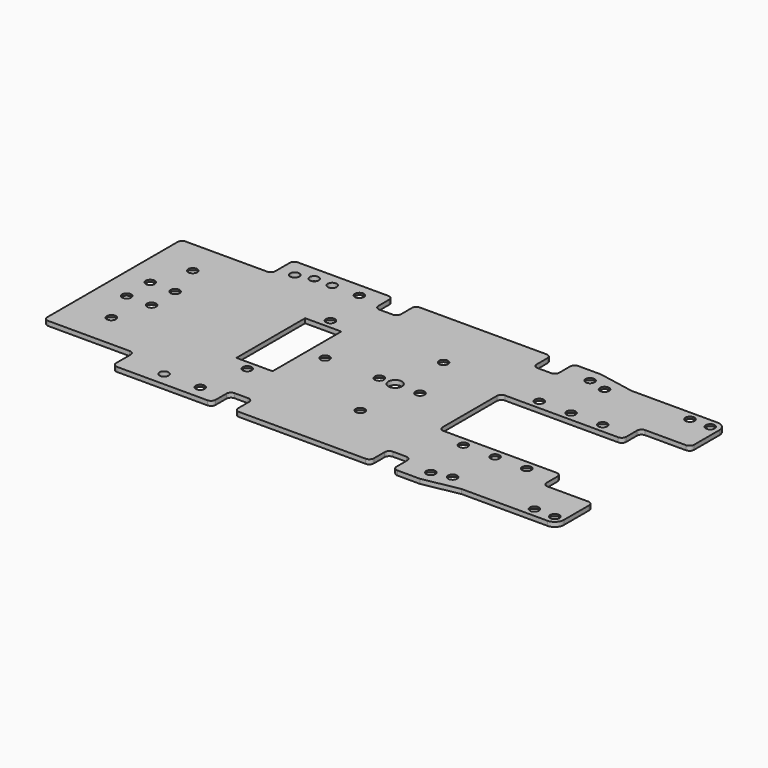
from build123d import *

# Parameters (mm, degrees)
SKETCH239_R      = 1.5
EXTRUDE041_DEPTH = 1
SKETCH243_R      = 1
EXTRUDE045_DEPTH = 1
SKETCH242_R      = 1
EXTRUDE044_DEPTH = 1
SKETCH241_R      = 1
EXTRUDE043_DEPTH = 1
SKETCH240_R      = 1
EXTRUDE042_DEPTH = 1
SKETCH224_W      = 8
SKETCH224_H      = 19
EXTRUDE040_DEPTH = 1
SKETCH183_R      = 2
SKETCH182_R      = 1
SKETCH187_R      = 2
SKETCH185_R      = 1
SKETCH184_R      = 2
SKETCH186_R      = 1
SKETCH189_R      = 2
SKETCH188_R      = 1
SKETCH191_R      = 2
SKETCH190_R      = 1
SKETCH181_R      = 2
SKETCH180_R      = 1
SKETCH193_R      = 2
SKETCH192_R      = 1
SKETCH197_R      = 2
SKETCH196_R      = 1
SKETCH199_R      = 2
SKETCH198_R      = 1
SKETCH201_R      = 2
SKETCH200_R      = 1
SKETCH203_R      = 2
SKETCH202_R      = 1
SKETCH207_R      = 2
SKETCH206_R      = 1
SKETCH205_R      = 2
SKETCH204_R      = 1
SKETCH209_R      = 2
SKETCH208_R      = 1
SKETCH211_R      = 2
SKETCH210_R      = 1
SKETCH213_R      = 2
SKETCH212_R      = 1
SKETCH215_R      = 2
SKETCH214_R      = 1
SKETCH217_R      = 2
SKETCH216_R      = 1
SKETCH219_R      = 2
SKETCH218_R      = 1
SKETCH221_R      = 2
SKETCH220_R      = 1
SKETCH223_R      = 2
SKETCH222_R      = 1
SKETCH226_R      = 2
SKETCH225_R      = 1
SKETCH228_R      = 2
SKETCH227_R      = 1
SKETCH230_R      = 2
SKETCH229_R      = 1
SKETCH232_R      = 2
SKETCH231_R      = 1
SKETCH234_R      = 2
SKETCH233_R      = 1
SKETCH236_R      = 2
SKETCH235_R      = 1
SKETCH238_R      = 2
SKETCH237_R      = 1
SKETCH195_R      = 2
SKETCH194_R      = 1
EXTRUDE039_DEPTH = 1


with BuildPart() as extrude041:
    # Sketch239 → Extrude041 (new body)
    with BuildSketch(Plane.XY):
        with Locations((10.5, 0)):
            Circle(SKETCH239_R)
    extrude(amount=EXTRUDE041_DEPTH)


with BuildPart() as extrude045:
    # Sketch243 → Extrude045 (new body)
    with BuildSketch(Plane(origin=(0.5, 1.5, 0), x_dir=(1, 0, 0), z_dir=(0, 0, 1))):
        with Locations((-23.5, 20.5)):
            Circle(SKETCH243_R)
    extrude(amount=EXTRUDE045_DEPTH)


with BuildPart() as extrude045_1:
    # Extrude045 placement: moved
    add(extrude045.part.moved(Location((-5.5, -43, 0))))


with BuildPart() as extrude044:
    # Sketch242 → Extrude044 (new body)
    with BuildSketch(Plane(origin=(0.5, 1.5, 0), x_dir=(1, 0, 0), z_dir=(0, 0, 1))):
        with Locations((-23.5, 20.5)):
            Circle(SKETCH242_R)
    extrude(amount=EXTRUDE044_DEPTH)


with BuildPart() as extrude044_1:
    # Extrude044 placement: moved
    add(extrude044.part.moved(Location((-2, -44, 0))))


with BuildPart() as extrude043:
    # Sketch241 → Extrude043 (new body)
    with BuildSketch(Plane(origin=(0.5, 1.5, 0), x_dir=(1, 0, 0), z_dir=(0, 0, 1))):
        with Locations((-23.5, 20.5)):
            Circle(SKETCH241_R)
    extrude(amount=EXTRUDE043_DEPTH)


with BuildPart() as extrude043_1:
    # Extrude043 placement: moved
    add(extrude043.part.moved(Location((2, -44, 0))))


with BuildPart() as extrude042:
    # Sketch240 → Extrude042 (new body)
    with BuildSketch(Plane(origin=(0.5, 1.5, 0), x_dir=(1, 0, 0), z_dir=(0, 0, 1))):
        with Locations((-23.5, 20.5)):
            Circle(SKETCH240_R)
    extrude(amount=EXTRUDE042_DEPTH)


with BuildPart() as fusion016:
    # Sketch224 → Extrude040 (new body)
    with BuildSketch(Plane(origin=(-17, -9.5, 0), x_dir=(1, 0, 0), z_dir=(0, 0, 1))):
        with Locations((4, 9.5)):
            Rectangle(SKETCH224_W, SKETCH224_H)
    extrude(amount=EXTRUDE040_DEPTH)

    # Fusion016: union Extrude041, Extrude045, Extrude044, Extrude043, Extrude042
    add(extrude041.part)
    add(extrude045_1.part)
    add(extrude044_1.part)
    add(extrude043_1.part)
    add(extrude042.part)


with BuildPart() as loft042:
    # Sketch183 → Loft042 section 0
    with BuildSketch(Plane.XY):
        with Locations((-43.5, 11)):
            Circle(SKETCH183_R)
    # Sketch182 → Loft042 section 1
    with BuildSketch(Plane.XY.offset(1)):
        with Locations((-43.5, 11)):
            Circle(SKETCH182_R)
    loft()


with BuildPart() as loft042_1:
    # Loft042 placement: moved
    add(loft042.part.moved(Location((2.75, -7.75, 0))))


with BuildPart() as loft044:
    # Sketch187 → Loft044 section 0
    with BuildSketch(Plane.XY):
        with Locations((-43.5, 11)):
            Circle(SKETCH187_R)
    # Sketch185 → Loft044 section 1
    with BuildSketch(Plane.XY.offset(1)):
        with Locations((-43.5, 11)):
            Circle(SKETCH185_R)
    loft()


with BuildPart() as loft044_1:
    # Loft044 placement: moved
    add(loft044.part.moved(Location((2.75, -14.25, 0))))


with BuildPart() as loft043:
    # Sketch184 → Loft043 section 0
    with BuildSketch(Plane.XY):
        with Locations((-43.5, 11)):
            Circle(SKETCH184_R)
    # Sketch186 → Loft043 section 1
    with BuildSketch(Plane.XY.offset(1)):
        with Locations((-43.5, 11)):
            Circle(SKETCH186_R)
    loft()


with BuildPart() as loft043_1:
    # Loft043 placement: moved
    add(loft043.part.moved(Location((-2.75, -14.25, 0))))


with BuildPart() as loft045:
    # Sketch189 → Loft045 section 0
    with BuildSketch(Plane.XY):
        with Locations((-43.5, 11)):
            Circle(SKETCH189_R)
    # Sketch188 → Loft045 section 1
    with BuildSketch(Plane.XY.offset(1)):
        with Locations((-43.5, 11)):
            Circle(SKETCH188_R)
    loft()


with BuildPart() as loft045_1:
    # Loft045 placement: moved
    add(loft045.part.moved(Location((0.25, -22.25, 0))))


with BuildPart() as loft046:
    # Sketch191 → Loft046 section 0
    with BuildSketch(Plane.XY):
        with Locations((-43.5, 11)):
            Circle(SKETCH191_R)
    # Sketch190 → Loft046 section 1
    with BuildSketch(Plane.XY.offset(1)):
        with Locations((-43.5, 11)):
            Circle(SKETCH190_R)
    loft()


with BuildPart() as loft046_1:
    # Loft046 placement: moved
    add(loft046.part.moved(Location((0.25, 0.25, 0))))


with BuildPart() as fusion015:
    # Sketch181 → Loft041 section 0
    with BuildSketch(Plane.XY):
        with Locations((-43.5, 11)):
            Circle(SKETCH181_R)
    # Sketch180 → Loft041 section 1
    with BuildSketch(Plane.XY.offset(1)):
        with Locations((-43.5, 11)):
            Circle(SKETCH180_R)
    loft()


with BuildPart() as fusion015_1:
    # Loft041 placement: moved
    add(fusion015.part.moved(Location((-2.75, -7.75, 0))))

    # Fusion015: union Loft042, Loft044, Loft043, Loft045, Loft046
    add(loft042_1.part)
    add(loft044_1.part)
    add(loft043_1.part)
    add(loft045_1.part)
    add(loft046_1.part)


with BuildPart() as loft047:
    # Sketch193 → Loft047 section 0
    with BuildSketch(Plane.XY):
        with Locations((-43.5, 11)):
            Circle(SKETCH193_R)
    # Sketch192 → Loft047 section 1
    with BuildSketch(Plane.XY.offset(1)):
        with Locations((-43.5, 11)):
            Circle(SKETCH192_R)
    loft()


with BuildPart() as loft047_1:
    # Loft047 placement: moved
    add(loft047.part.moved(Location((28.5, 11, 0))))


with BuildPart() as loft049:
    # Sketch197 → Loft049 section 0
    with BuildSketch(Plane.XY):
        with Locations((-43.5, 11)):
            Circle(SKETCH197_R)
    # Sketch196 → Loft049 section 1
    with BuildSketch(Plane.XY.offset(1)):
        with Locations((-43.5, 11)):
            Circle(SKETCH196_R)
    loft()


with BuildPart() as loft049_1:
    # Loft049 placement: moved
    add(loft049.part.moved(Location((79.5, -33, 0))))


with BuildPart() as loft050:
    # Sketch199 → Loft050 section 0
    with BuildSketch(Plane.XY):
        with Locations((-43.5, 11)):
            Circle(SKETCH199_R)
    # Sketch198 → Loft050 section 1
    with BuildSketch(Plane.XY.offset(1)):
        with Locations((-43.5, 11)):
            Circle(SKETCH198_R)
    loft()


with BuildPart() as loft050_1:
    # Loft050 placement: moved
    add(loft050.part.moved(Location((79.5, 11, 0))))


with BuildPart() as loft051:
    # Sketch201 → Loft051 section 0
    with BuildSketch(Plane.XY):
        with Locations((-43.5, 11)):
            Circle(SKETCH201_R)
    # Sketch200 → Loft051 section 1
    with BuildSketch(Plane.XY.offset(1)):
        with Locations((-43.5, 11)):
            Circle(SKETCH200_R)
    loft()


with BuildPart() as loft051_1:
    # Loft051 placement: moved
    add(loft051.part.moved(Location((83.5, 10, 0))))


with BuildPart() as loft052:
    # Sketch203 → Loft052 section 0
    with BuildSketch(Plane.XY):
        with Locations((-43.5, 11)):
            Circle(SKETCH203_R)
    # Sketch202 → Loft052 section 1
    with BuildSketch(Plane.XY.offset(1)):
        with Locations((-43.5, 11)):
            Circle(SKETCH202_R)
    loft()


with BuildPart() as loft052_1:
    # Loft052 placement: moved
    add(loft052.part.moved(Location((83.5, -32, 0))))


with BuildPart() as loft054:
    # Sketch207 → Loft054 section 0
    with BuildSketch(Plane.XY):
        with Locations((-43.5, 11)):
            Circle(SKETCH207_R)
    # Sketch206 → Loft054 section 1
    with BuildSketch(Plane.XY.offset(1)):
        with Locations((-43.5, 11)):
            Circle(SKETCH206_R)
    loft()


with BuildPart() as loft054_1:
    # Loft054 placement: moved
    add(loft054.part.moved(Location((102, -32.5, 0))))


with BuildPart() as loft053:
    # Sketch205 → Loft053 section 0
    with BuildSketch(Plane.XY):
        with Locations((-43.5, 11)):
            Circle(SKETCH205_R)
    # Sketch204 → Loft053 section 1
    with BuildSketch(Plane.XY.offset(1)):
        with Locations((-43.5, 11)):
            Circle(SKETCH204_R)
    loft()


with BuildPart() as loft053_1:
    # Loft053 placement: moved
    add(loft053.part.moved(Location((106.5, -32.5, 0))))


with BuildPart() as loft055:
    # Sketch209 → Loft055 section 0
    with BuildSketch(Plane.XY):
        with Locations((-43.5, 11)):
            Circle(SKETCH209_R)
    # Sketch208 → Loft055 section 1
    with BuildSketch(Plane.XY.offset(1)):
        with Locations((-43.5, 11)):
            Circle(SKETCH208_R)
    loft()


with BuildPart() as loft055_1:
    # Loft055 placement: moved
    add(loft055.part.moved(Location((106.5, 10.5, 0))))


with BuildPart() as loft056:
    # Sketch211 → Loft056 section 0
    with BuildSketch(Plane.XY):
        with Locations((-43.5, 11)):
            Circle(SKETCH211_R)
    # Sketch210 → Loft056 section 1
    with BuildSketch(Plane.XY.offset(1)):
        with Locations((-43.5, 11)):
            Circle(SKETCH210_R)
    loft()


with BuildPart() as loft056_1:
    # Loft056 placement: moved
    add(loft056.part.moved(Location((102, 10.5, 0))))


with BuildPart() as loft057:
    # Sketch213 → Loft057 section 0
    with BuildSketch(Plane.XY):
        with Locations((-43.5, 11)):
            Circle(SKETCH213_R)
    # Sketch212 → Loft057 section 1
    with BuildSketch(Plane.XY.offset(1)):
        with Locations((-43.5, 11)):
            Circle(SKETCH212_R)
    loft()


with BuildPart() as loft057_1:
    # Loft057 placement: moved
    add(loft057.part.moved(Location((91.5, -0.5, 0))))


with BuildPart() as loft058:
    # Sketch215 → Loft058 section 0
    with BuildSketch(Plane.XY):
        with Locations((-43.5, 11)):
            Circle(SKETCH215_R)
    # Sketch214 → Loft058 section 1
    with BuildSketch(Plane.XY.offset(1)):
        with Locations((-43.5, 11)):
            Circle(SKETCH214_R)
    loft()


with BuildPart() as loft058_1:
    # Loft058 placement: moved
    add(loft058.part.moved(Location((84.5, -0.5, 0))))


with BuildPart() as loft059:
    # Sketch217 → Loft059 section 0
    with BuildSketch(Plane.XY):
        with Locations((-43.5, 11)):
            Circle(SKETCH217_R)
    # Sketch216 → Loft059 section 1
    with BuildSketch(Plane.XY.offset(1)):
        with Locations((-43.5, 11)):
            Circle(SKETCH216_R)
    loft()


with BuildPart() as loft059_1:
    # Loft059 placement: moved
    add(loft059.part.moved(Location((77.5, -0.5, 0))))


with BuildPart() as loft060:
    # Sketch219 → Loft060 section 0
    with BuildSketch(Plane.XY):
        with Locations((-43.5, 11)):
            Circle(SKETCH219_R)
    # Sketch218 → Loft060 section 1
    with BuildSketch(Plane.XY.offset(1)):
        with Locations((-43.5, 11)):
            Circle(SKETCH218_R)
    loft()


with BuildPart() as loft060_1:
    # Loft060 placement: moved
    add(loft060.part.moved(Location((91.5, -21.5, 0))))


with BuildPart() as loft061:
    # Sketch221 → Loft061 section 0
    with BuildSketch(Plane.XY):
        with Locations((-43.5, 11)):
            Circle(SKETCH221_R)
    # Sketch220 → Loft061 section 1
    with BuildSketch(Plane.XY.offset(1)):
        with Locations((-43.5, 11)):
            Circle(SKETCH220_R)
    loft()


with BuildPart() as loft061_1:
    # Loft061 placement: moved
    add(loft061.part.moved(Location((84.5, -21.5, 0))))


with BuildPart() as loft062:
    # Sketch223 → Loft062 section 0
    with BuildSketch(Plane.XY):
        with Locations((-43.5, 11)):
            Circle(SKETCH223_R)
    # Sketch222 → Loft062 section 1
    with BuildSketch(Plane.XY.offset(1)):
        with Locations((-43.5, 11)):
            Circle(SKETCH222_R)
    loft()


with BuildPart() as loft062_1:
    # Loft062 placement: moved
    add(loft062.part.moved(Location((77.5, -21.5, 0))))


with BuildPart() as loft063:
    # Sketch226 → Loft063 section 0
    with BuildSketch(Plane.XY):
        with Locations((-43.5, 11)):
            Circle(SKETCH226_R)
    # Sketch225 → Loft063 section 1
    with BuildSketch(Plane.XY.offset(1)):
        with Locations((-43.5, 11)):
            Circle(SKETCH225_R)
    loft()


with BuildPart() as loft063_1:
    # Loft063 placement: moved
    add(loft063.part.moved(Location((30.5, -22.5, 0))))


with BuildPart() as loft064:
    # Sketch228 → Loft064 section 0
    with BuildSketch(Plane.XY):
        with Locations((-43.5, 11)):
            Circle(SKETCH228_R)
    # Sketch227 → Loft064 section 1
    with BuildSketch(Plane.XY.offset(1)):
        with Locations((-43.5, 11)):
            Circle(SKETCH227_R)
    loft()


with BuildPart() as loft064_1:
    # Loft064 placement: moved
    add(loft064.part.moved(Location((30.5, 0.5, 0))))


with BuildPart() as loft065:
    # Sketch230 → Loft065 section 0
    with BuildSketch(Plane.XY):
        with Locations((-43.5, 11)):
            Circle(SKETCH230_R)
    # Sketch229 → Loft065 section 1
    with BuildSketch(Plane.XY.offset(1)):
        with Locations((-43.5, 11)):
            Circle(SKETCH229_R)
    loft()


with BuildPart() as loft065_1:
    # Loft065 placement: moved
    add(loft065.part.moved(Location((55.5, -22.5, 0))))


with BuildPart() as loft066:
    # Sketch232 → Loft066 section 0
    with BuildSketch(Plane.XY):
        with Locations((-43.5, 11)):
            Circle(SKETCH232_R)
    # Sketch231 → Loft066 section 1
    with BuildSketch(Plane.XY.offset(1)):
        with Locations((-43.5, 11)):
            Circle(SKETCH231_R)
    loft()


with BuildPart() as loft066_1:
    # Loft066 placement: moved
    add(loft066.part.moved(Location((55.5, 0.5, 0))))


with BuildPart() as loft067:
    # Sketch234 → Loft067 section 0
    with BuildSketch(Plane.XY):
        with Locations((-43.5, 11)):
            Circle(SKETCH234_R)
    # Sketch233 → Loft067 section 1
    with BuildSketch(Plane.XY.offset(1)):
        with Locations((-43.5, 11)):
            Circle(SKETCH233_R)
    loft()


with BuildPart() as loft067_1:
    # Loft067 placement: moved
    add(loft067.part.moved(Location((38.5, -11, 0))))


with BuildPart() as loft068:
    # Sketch236 → Loft068 section 0
    with BuildSketch(Plane.XY):
        with Locations((-43.5, 11)):
            Circle(SKETCH236_R)
    # Sketch235 → Loft068 section 1
    with BuildSketch(Plane.XY.offset(1)):
        with Locations((-43.5, 11)):
            Circle(SKETCH235_R)
    loft()


with BuildPart() as loft068_1:
    # Loft068 placement: moved
    add(loft068.part.moved(Location((50.5, -11, 0))))


with BuildPart() as loft069:
    # Sketch238 → Loft069 section 0
    with BuildSketch(Plane.XY):
        with Locations((-43.5, 11)):
            Circle(SKETCH238_R)
    # Sketch237 → Loft069 section 1
    with BuildSketch(Plane.XY.offset(1)):
        with Locations((-43.5, 11)):
            Circle(SKETCH237_R)
    loft()


with BuildPart() as loft069_1:
    # Loft069 placement: moved
    add(loft069.part.moved(Location((59.5, -11, 0))))


with BuildPart() as fusion014:
    # Sketch195 → Loft048 section 0
    with BuildSketch(Plane.XY):
        with Locations((-43.5, 11)):
            Circle(SKETCH195_R)
    # Sketch194 → Loft048 section 1
    with BuildSketch(Plane.XY.offset(1)):
        with Locations((-43.5, 11)):
            Circle(SKETCH194_R)
    loft()


with BuildPart() as fusion014_1:
    # Loft048 placement: moved
    add(fusion014.part.moved(Location((28.5, -33, 0))))

    # Fusion014: union Loft047, Loft049, Loft050, Loft051, Loft052, Loft054, Loft053, Loft055, Loft056, Loft057, Loft058, Loft059, Loft060, Loft061, Loft062, Loft063, Loft064, Loft065, Loft066, Loft067, Loft068, Loft069
    add(loft047_1.part)
    add(loft049_1.part)
    add(loft050_1.part)
    add(loft051_1.part)
    add(loft052_1.part)
    add(loft054_1.part)
    add(loft053_1.part)
    add(loft055_1.part)
    add(loft056_1.part)
    add(loft057_1.part)
    add(loft058_1.part)
    add(loft059_1.part)
    add(loft060_1.part)
    add(loft061_1.part)
    add(loft062_1.part)
    add(loft063_1.part)
    add(loft064_1.part)
    add(loft065_1.part)
    add(loft066_1.part)
    add(loft067_1.part)
    add(loft068_1.part)
    add(loft069_1.part)


with BuildPart() as cut028:
    # Sketch179 → Extrude039 (new body)
    with BuildSketch(Plane.XY):
        with BuildLine():
            ThreePointArc((-52, -18), (-51.707107, -18.707107), (-51, -19))
            Line((-51, -19), (-33, -19))
            ThreePointArc((-32, -20), (-32.292893, -19.292893), (-33, -19))
            Line((-32, -24), (-32, -20))
            ThreePointArc((-32, -24), (-31.707107, -24.707107), (-31, -25))
            Line((-31, -25), (-11, -25))
            ThreePointArc((-11, -25), (-10.292893, -24.707107), (-10, -24))
            Line((-10, -24), (-10, -21))
            ThreePointArc((-9, -20), (-9.707107, -20.292893), (-10, -21))
            Line((-9, -20), (-6, -20))
            ThreePointArc((-5, -21), (-5.292893, -20.292893), (-6, -20))
            Line((-5, -21), (-5, -24))
            ThreePointArc((-5, -24), (-4.707107, -24.707107), (-4, -25))
            Line((-4, -25), (24, -25))
            ThreePointArc((24, -25), (24.707107, -24.707107), (25, -24))
            Line((25, -24), (25, -21))
            ThreePointArc((26, -20), (25.292893, -20.292893), (25, -21))
            Line((26, -20), (29, -20))
            ThreePointArc((30, -21), (29.707107, -20.292893), (29, -20))
            Line((30, -21), (30, -24))
            ThreePointArc((30, -24), (30.292893, -24.707107), (31, -25))
            Line((31, -25), (36, -25))
            Line((44, -23.5), (36, -25))
            Line((63, -23.5), (44, -23.5))
            ThreePointArc((63, -23.5), (64.414214, -22.914214), (65, -21.5))
            Line((65, -21.5), (65, -14.5))
            ThreePointArc((65, -14.5), (64.707107, -13.792893), (64, -13.5))
            Line((55, -13.5), (64, -13.5))
            ThreePointArc((54, -12.5), (54.292893, -13.207107), (55, -13.5))
            Line((54, -9.5), (54, -12.5))
            ThreePointArc((54, -9.5), (53.707107, -8.792893), (53, -8.5))
            Line((28, -8.5), (53, -8.5))
            ThreePointArc((27, -7.5), (27.292893, -8.207107), (28, -8.5))
            Line((27, 7.5), (27, -7.5))
            ThreePointArc((28, 8.5), (27.292893, 8.207107), (27, 7.5))
            Line((53, 8.5), (28, 8.5))
            ThreePointArc((53, 8.5), (53.707107, 8.792893), (54, 9.5))
            Line((54, 12.5), (54, 9.5))
            ThreePointArc((55, 13.5), (54.292893, 13.207107), (54, 12.5))
            Line((64, 13.5), (55, 13.5))
            ThreePointArc((64, 13.5), (64.707107, 13.792893), (65, 14.5))
            Line((65, 21.5), (65, 14.5))
            ThreePointArc((65, 21.5), (64.414214, 22.914214), (63, 23.5))
            Line((63, 23.5), (44, 23.5))
            Line((36, 25), (44, 23.5))
            Line((31, 25), (36, 25))
            ThreePointArc((31, 25), (30.292893, 24.707107), (30, 24))
            Line((30, 21), (30, 24))
            ThreePointArc((29, 20), (29.707107, 20.292893), (30, 21))
            Line((26, 20), (29, 20))
            ThreePointArc((25, 21), (25.292893, 20.292893), (26, 20))
            Line((25, 24), (25, 21))
            ThreePointArc((25, 24), (24.707107, 24.707107), (24, 25))
            Line((-4, 25), (24, 25))
            ThreePointArc((-4, 25), (-4.707107, 24.707107), (-5, 24))
            Line((-5, 21), (-5, 24))
            ThreePointArc((-6, 20), (-5.292893, 20.292893), (-5, 21))
            Line((-9, 20), (-6, 20))
            ThreePointArc((-10, 21), (-9.707107, 20.292893), (-9, 20))
            Line((-10, 24), (-10, 21))
            ThreePointArc((-10, 24), (-10.292893, 24.707107), (-11, 25))
            Line((-31, 25), (-11, 25))
            ThreePointArc((-31, 25), (-31.707107, 24.707107), (-32, 24))
            Line((-32, 20), (-32, 24))
            ThreePointArc((-33, 19), (-32.292893, 19.292894), (-32, 20))
            Line((-51, 19), (-33, 19))
            ThreePointArc((-51, 19), (-51.707107, 18.707107), (-52, 18))
            Line((-52, -18), (-52, 18))
        make_face()
    extrude(amount=EXTRUDE039_DEPTH)

    # Cut026: cut Fusion014
    add(fusion014_1.part, mode=Mode.SUBTRACT)

    # Cut027: cut Fusion015
    add(fusion015_1.part, mode=Mode.SUBTRACT)

    # Cut028: cut Fusion016
    add(fusion016.part, mode=Mode.SUBTRACT)


with BuildPart() as obj1:
    # Part__Mirroring: instance of Cut028
    add(cut028.part.mirror(Plane(origin=(0, 0, 0), x_dir=(1, 0, 0), z_dir=(0, 1, 0))))


solid = obj1.part
